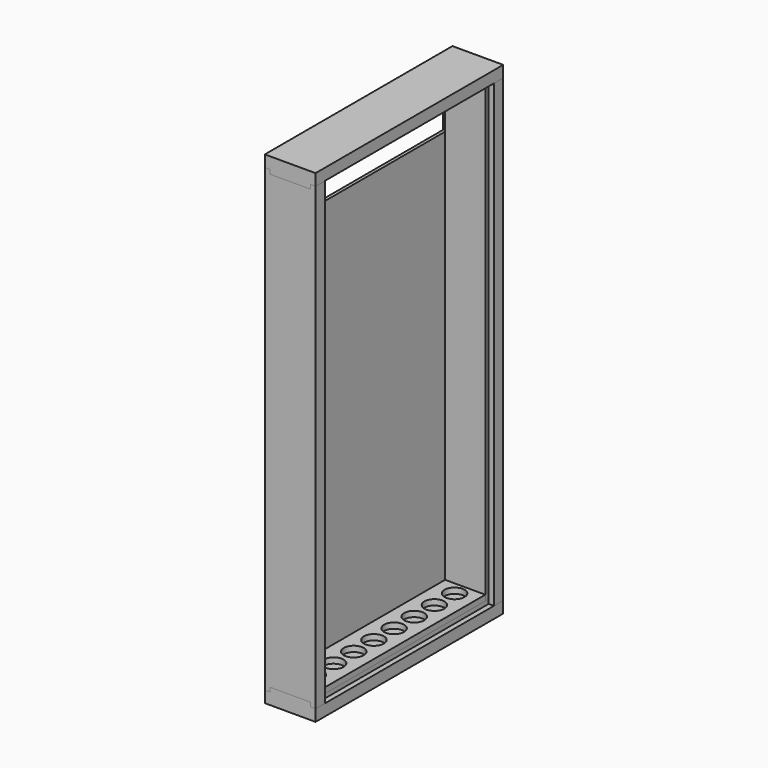
from build123d import *

# Parameters (mm, degrees)
F1_DEPTH = 1380
F3_DEPTH = 670
F5_DEPTH = 16
F6_D     = 57
F7_W     = 596
F7_H     = 8
F7_H_2   = 1143
F8_DEPTH = 9


with BuildPart() as f1:
    # F0 (on Top) → F1 (new body)
    with BuildSketch(Plane.XY):
        Polygon((0, 33), (0, 0), (145, 0), (145, 33), (130, 33), (130, 45), (15, 45), (15, 33), align=None)
        Polygon((0, 33), (0, 0), (145, 0), (145, 33), (130, 33), (130, 45), (15, 45), (15, 33), align=None)
    extrude(amount=F1_DEPTH)


with BuildPart() as f1b:
    # F0 (on Top) → F1, piece 2 (new body)
    with BuildSketch(Plane.XY):
        Polygon((145, 670), (0, 670), (0, 637), (15, 637), (15, 625), (130, 625), (130, 637), (145, 637), align=None)
    extrude(amount=F1_DEPTH)


with BuildPart() as f3:
    # F2 (on face) → F3 (new body)
    with BuildSketch(Plane.XZ):
        Polygon((0, 1380), (0, 1347), (15, 1347), (15, 1335), (130, 1335), (130, 1347), (145, 1347), (145, 1380), align=None)
    extrude(amount=-F3_DEPTH)


with BuildPart() as f3b:
    # F2 (on face) → F3, piece 2 (new body)
    with BuildSketch(Plane.XZ):
        Polygon((0, 33), (0, 0), (145, 0), (145, 33), (130, 33), (130, 45), (15, 45), (15, 33), align=None)
    extrude(amount=-F3_DEPTH)


with BuildPart() as f5:
    # F4 (on face) → F5 (new body)
    with BuildSketch(Plane.XY.offset(45)):
        Polygon((130, 45), (130, 625), (72.5, 625), (72.5, 299), (72.5, 227), (72.5, 155), (72.5, 83), (72.5, 45), align=None)
        Polygon((72.5, 299), (72.5, 625), (15, 625), (15, 45), (72.5, 45), (72.5, 83), (72.5, 155), (72.5, 227), align=None)
    extrude(amount=F5_DEPTH)

    # F6 (through all)
    with Locations(Plane(origin=(0, 0, 45), x_dir=(1, 0, 0), z_dir=(0, 0, -1))):
        with Locations((72.5, -83), (72.5, -155), (72.5, -227), (72.5, -299), (72.5, -371), (72.5, -443), (72.5, -515), (72.5, -587)):
            Hole(F6_D / 2)


with BuildPart() as f8:
    # F7 (on face) → F8 (new body)
    with BuildSketch(Plane(origin=(15, 0, 0), x_dir=(0, -1, 0), z_dir=(-1, 0, 0))):
        with Locations((-335, 41)):
            Rectangle(F7_W, F7_H)
        with Locations((-335, 616.5)):
            Rectangle(F7_W, F7_H_2)
    extrude(amount=F8_DEPTH)


solid = Compound([f1.part, f1b.part, f3.part, f3b.part, f5.part, f8.part])
